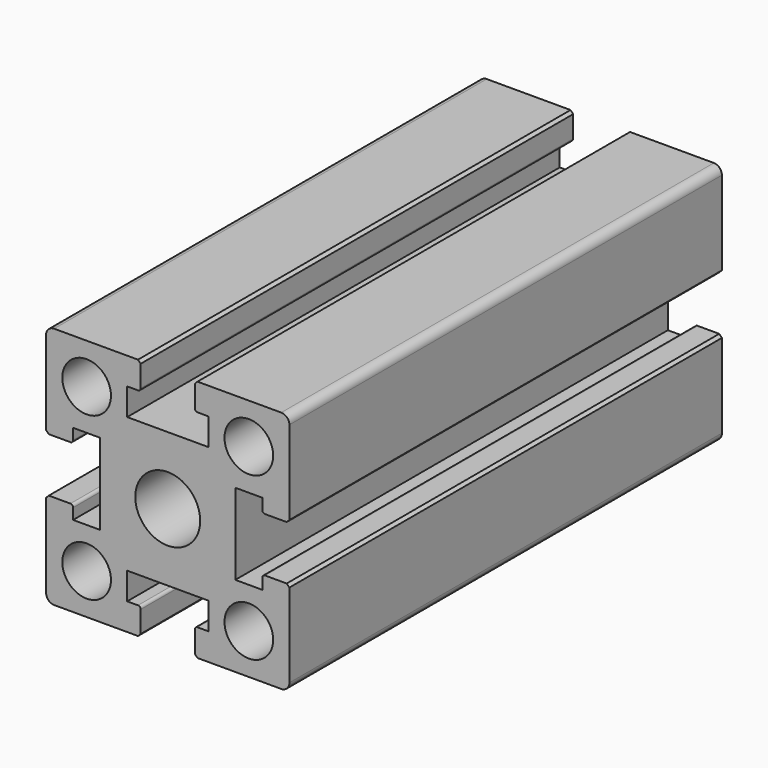
from build123d import *

# Parameters (mm, degrees)
F0_R     = 4.5
F0_R_2   = 6
F1_DEPTH = 100
F2_R     = 1.5
F3_R     = 0.5
F4_SIZE  = 0.5


with BuildPart() as f1:
    # F0 (on Front) → F1 (new body)
    with BuildSketch(Plane.XZ):
        Polygon((4.117647, -21.029412), (21.617647, -21.029412), (21.617647, -3.529412), (16.617647, -3.529412), (16.617647, -6.029412), (11.617647, -6.029412), (11.617647, 8.970588), (16.617647, 8.970588), (16.617647, 6.470588), (21.617647, 6.470588), (21.617647, 23.970588), (4.117647, 23.970588), (4.117647, 18.970588), (6.617647, 18.970588), (6.617647, 13.970588), (-8.382353, 13.970588), (-8.382353, 18.970588), (-5.882353, 18.970588), (-5.882353, 23.970588), (-23.382353, 23.970588), (-23.382353, 6.470588), (-18.382353, 6.470588), (-18.382353, 8.970588), (-13.382353, 8.970588), (-13.382353, -6.029412), (-18.382353, -6.029412), (-18.382353, -3.529412), (-23.382353, -3.529412), (-23.382353, -21.029412), (-5.882353, -21.029412), (-5.882353, -16.029412), (-8.382353, -16.029412), (-8.382353, -11.029412), (6.617647, -11.029412), (6.617647, -16.029412), (4.117647, -16.029412), align=None)
        with Locations((-15.882353, -13.529412)):
            Circle(F0_R, mode=Mode.SUBTRACT)
        with Locations((14.117647, -13.529412)):
            Circle(F0_R, mode=Mode.SUBTRACT)
        with Locations((-0.882353, 1.470588)):
            Circle(F0_R_2, mode=Mode.SUBTRACT)
        with Locations((-15.882353, 16.470588)):
            Circle(F0_R, mode=Mode.SUBTRACT)
        with Locations((14.117647, 16.470588)):
            Circle(F0_R, mode=Mode.SUBTRACT)
    extrude(amount=F1_DEPTH)

    # F2
    f2_edges = [f1.edges().sort_by_distance(p)[0] for p in [
        (21.617647, -50, 23.970588),
        (21.617647, -50, -21.029412),
        (-23.382353, -50, 23.970588),
        (-23.382353, -50, -21.029412),
    ]]
    fillet(f2_edges, radius=F2_R)

    # F3
    f3_edges = [f1.edges().sort_by_distance(p)[0] for p in [
        (-18.382353, -50, 6.470588),
        (-5.882353, -50, 18.970588),
        (4.117647, -50, 18.970588),
        (16.617647, -50, 6.470588),
        (4.117647, -50, -16.029412),
        (16.617647, -50, -3.529412),
        (-5.882353, -50, -16.029412),
        (-18.382353, -50, -3.529412),
    ]]
    fillet(f3_edges, radius=F3_R)

    # F4
    f4_edges = [f1.edges().sort_by_distance(p)[0] for p in [
        (-5.882353, -50, 23.970588),
        (4.117647, -50, 23.970588),
        (21.617647, -50, 6.470588),
        (21.617647, -50, -3.529412),
        (-5.882353, -50, -21.029412),
        (-23.382353, -50, -3.529412),
        (-23.382353, -50, 6.470588),
        (4.117647, -50, -21.029412),
    ]]
    chamfer(f4_edges, length=F4_SIZE)


solid = f1.part
